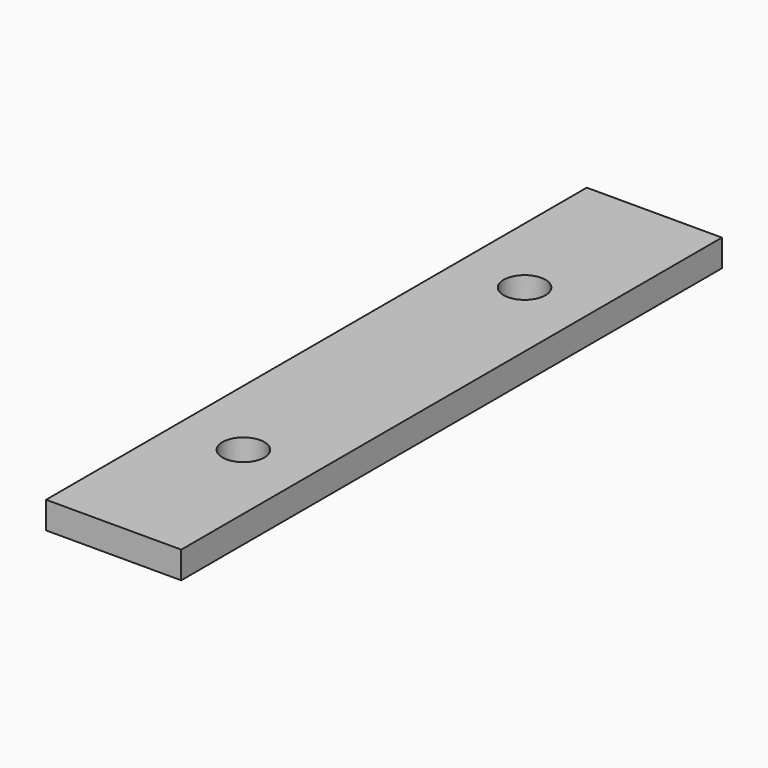
from build123d import *

# Parameters (mm, degrees)
CYLINDER001_R     = 1.55
CYLINDER001_DEPTH = 10
CYLINDER_R        = 1.55
CYLINDER_DEPTH    = 10
BOX_W             = 10
BOX_H             = 50
BOX_DEPTH         = 2


with BuildPart() as cylinder001:
    # Cylinder001 → Cylinder001 (new body)
    with BuildSketch(Plane(origin=(-5, 38, 14), x_dir=(1, 0, 0), z_dir=(0, 0, 1))):
        Circle(CYLINDER001_R)
    extrude(amount=CYLINDER001_DEPTH)


with BuildPart() as cylinder:
    # Cylinder → Cylinder (new body)
    with BuildSketch(Plane(origin=(-5, 12, 14), x_dir=(1, 0, 0), z_dir=(0, 0, 1))):
        Circle(CYLINDER_R)
    extrude(amount=CYLINDER_DEPTH)


with BuildPart() as lip:
    # Box → Box (new body)
    with BuildSketch(Plane(origin=(-10, 0, 18), x_dir=(1, 0, 0), z_dir=(0, 0, 1))):
        with Locations((5, 25)):
            Rectangle(BOX_W, BOX_H)
    extrude(amount=BOX_DEPTH)

    # Cut: cut Cylinder
    add(cylinder.part, mode=Mode.SUBTRACT)

    # Cut001: cut Cylinder001
    add(cylinder001.part, mode=Mode.SUBTRACT)


solid = lip.part
